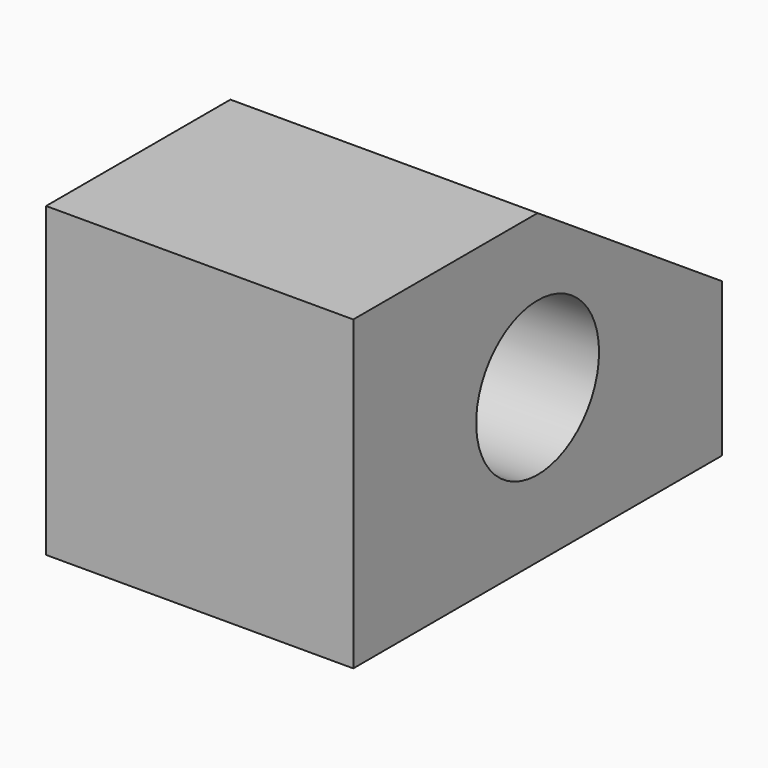
from build123d import *

# Parameters (mm, degrees)
F0_W     = 50.8
F0_H     = 76.2
F1_DEPTH = 50.8
F2_R     = 12.7
F3_DEPTH = 50.8
F5_DEPTH = 50.8


with BuildPart() as f1:
    # F0 (on Top) → F1 (new body)
    with BuildSketch(Plane.XY):
        with Locations((25.4, 38.1)):
            Rectangle(F0_W, F0_H)
    extrude(amount=F1_DEPTH)

    # F2 (on face) → F3 (cut, through all)
    with BuildSketch(Plane.YZ.offset(50.8)):
        with Locations((38.1, 25.4)):
            Circle(F2_R)
        with Locations((38.1, 25.4)):
            Circle(F2_R)
    extrude(amount=-F3_DEPTH, mode=Mode.SUBTRACT)

    # F4 (on face) → F5 (cut, through all)
    with BuildSketch(Plane.YZ.offset(50.8)):
        Polygon((76.2, 50.8), (38.1, 50.8), (76.2, 25.4), align=None)
    extrude(amount=-F5_DEPTH, mode=Mode.SUBTRACT)


solid = f1.part
